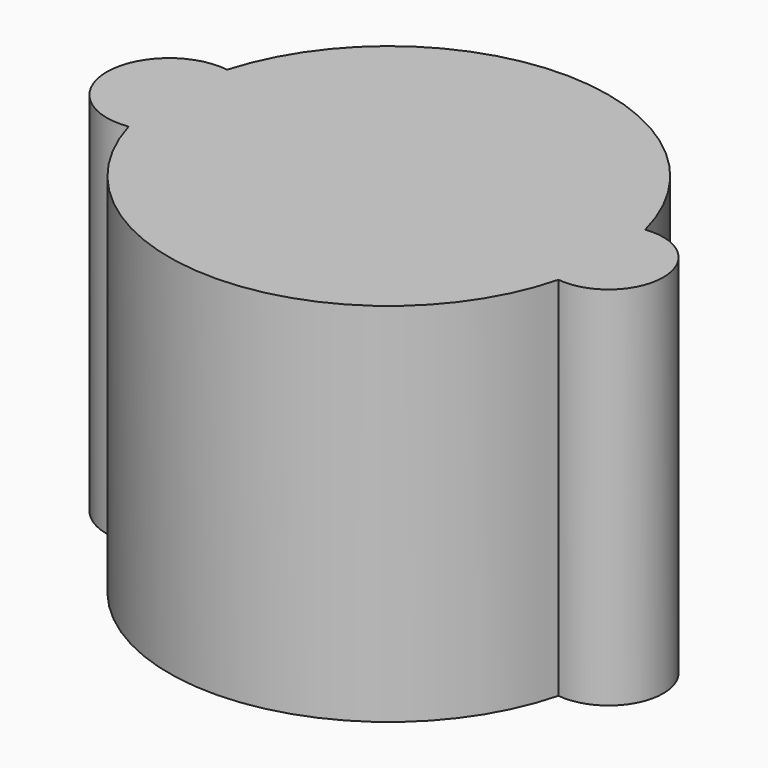
from build123d import *

# Parameters (mm, degrees)
F1_DEPTH = 12.7
F2_DEPTH = 19.05


with BuildPart() as f1:
    # F0 (on Top) → F1 (new body)
    with BuildSketch(Plane.XY):
        with BuildLine():
            ThreePointArc((11.0765836834, -2.8203180503), (11.3413017661, -1.4211876194), (11.43, 0))
            ThreePointArc((11.43, 0), (11.3413017661, 1.4211876194), (11.0765836834, 2.8203180503))
            ThreePointArc((11.0765836834, 2.8203180503), (8.5876247613, 0), (11.0765836834, -2.8203180503))
        make_face()
        with BuildLine():
            ThreePointArc((11.0765836834, 2.8203180503), (11.3413017661, 1.4211876194), (11.43, 0))
            ThreePointArc((11.43, 0), (11.3413017661, -1.4211876194), (11.0765836834, -2.8203180503))
            ThreePointArc((11.0765836834, -2.8203180503), (13.3107651648, -2.1311544741), (14.2723752387, 0))
            ThreePointArc((14.2723752387, 0), (13.3107651648, 2.1311544741), (11.0765836834, 2.8203180503))
        make_face()
        with BuildLine():
            ThreePointArc((11.0765836834, -2.8203180503), (8.5876247613, 0), (11.0765836834, 2.8203180503))
            ThreePointArc((11.0765836834, 2.8203180503), (0.1988752534, 11.428269713), (-10.9717481638, 3.2040040932))
            ThreePointArc((-10.9717481638, 3.2040040932), (-8.9847168945, 2.1204309724), (-8.1933911304, 0))
            ThreePointArc((-8.1933911304, 0), (-8.9847168945, -2.1204309724), (-10.9717481638, -3.2040040932))
            ThreePointArc((-10.9717481638, -3.2040040932), (0.1988752534, -11.428269713), (11.0765836834, -2.8203180503))
        make_face()
        with BuildLine():
            ThreePointArc((-8.1933911304, 0), (-8.9847168945, 2.1204309724), (-10.9717481638, 3.2040040932))
            ThreePointArc((-10.9717481638, 3.2040040932), (-11.43, 0), (-10.9717481638, -3.2040040932))
            ThreePointArc((-10.9717481638, -3.2040040932), (-8.9847168945, -2.1204309724), (-8.1933911304, 0))
        make_face()
        with BuildLine():
            ThreePointArc((-10.9717481638, -3.2040040932), (-11.43, 0), (-10.9717481638, 3.2040040932))
            ThreePointArc((-10.9717481638, 3.2040040932), (-14.6666088696, 0), (-10.9717481638, -3.2040040932))
        make_face()
    extrude(amount=F1_DEPTH)

    # F0 (on Top) → F2 (join)
    with BuildSketch(Plane.XY):
        with BuildLine():
            ThreePointArc((11.0765836834, -2.8203180503), (11.3413017661, -1.4211876194), (11.43, 0))
            ThreePointArc((11.43, 0), (11.3413017661, 1.4211876194), (11.0765836834, 2.8203180503))
            ThreePointArc((11.0765836834, 2.8203180503), (8.5876247613, 0), (11.0765836834, -2.8203180503))
        make_face()
        with BuildLine():
            ThreePointArc((11.0765836834, 2.8203180503), (11.3413017661, 1.4211876194), (11.43, 0))
            ThreePointArc((11.43, 0), (11.3413017661, -1.4211876194), (11.0765836834, -2.8203180503))
            ThreePointArc((11.0765836834, -2.8203180503), (13.3107651648, -2.1311544741), (14.2723752387, 0))
            ThreePointArc((14.2723752387, 0), (13.3107651648, 2.1311544741), (11.0765836834, 2.8203180503))
        make_face()
        with BuildLine():
            ThreePointArc((11.0765836834, -2.8203180503), (8.5876247613, 0), (11.0765836834, 2.8203180503))
            ThreePointArc((11.0765836834, 2.8203180503), (0.1988752534, 11.428269713), (-10.9717481638, 3.2040040932))
            ThreePointArc((-10.9717481638, 3.2040040932), (-8.9847168945, 2.1204309724), (-8.1933911304, 0))
            ThreePointArc((-8.1933911304, 0), (-8.9847168945, -2.1204309724), (-10.9717481638, -3.2040040932))
            ThreePointArc((-10.9717481638, -3.2040040932), (0.1988752534, -11.428269713), (11.0765836834, -2.8203180503))
        make_face()
        with BuildLine():
            ThreePointArc((-8.1933911304, 0), (-8.9847168945, 2.1204309724), (-10.9717481638, 3.2040040932))
            ThreePointArc((-10.9717481638, 3.2040040932), (-11.43, 0), (-10.9717481638, -3.2040040932))
            ThreePointArc((-10.9717481638, -3.2040040932), (-8.9847168945, -2.1204309724), (-8.1933911304, 0))
        make_face()
        with BuildLine():
            ThreePointArc((-10.9717481638, -3.2040040932), (-11.43, 0), (-10.9717481638, 3.2040040932))
            ThreePointArc((-10.9717481638, 3.2040040932), (-14.6666088696, 0), (-10.9717481638, -3.2040040932))
        make_face()
    extrude(amount=F2_DEPTH)


solid = f1.part
